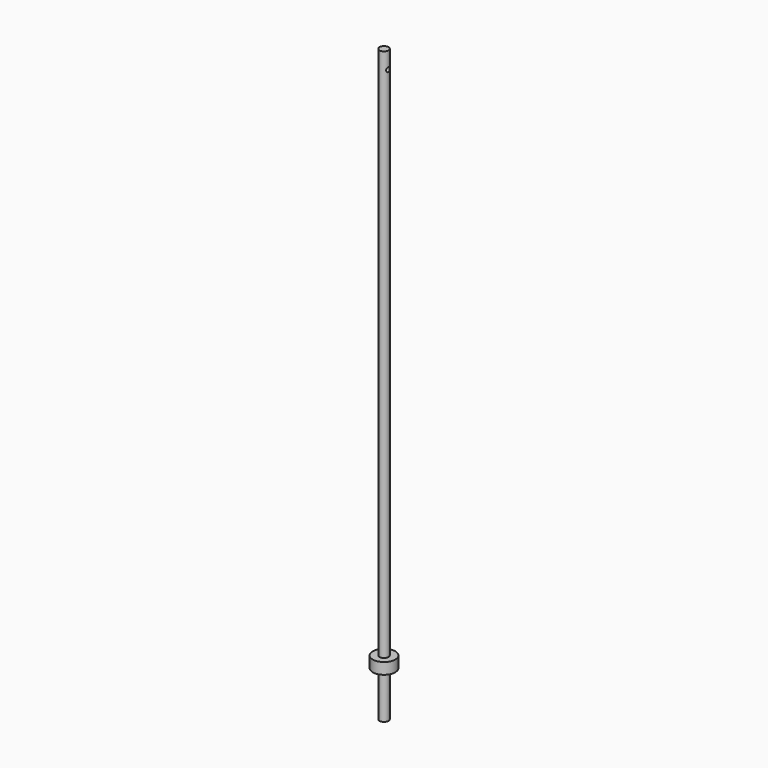
from build123d import *

# Parameters (mm, degrees)
F0_R     = 4
F1_DEPTH = 500
F3_START = -450
F2_R     = 10
F2_R_2   = 4
F3_DEPTH = 10
F4_DEPTH = 25
F5_R     = 2
F6_DEPTH = 12.5


with BuildPart() as f1:
    # F0 (on Top) → F1 (new body)
    with BuildSketch(Plane.XY):
        Circle(F0_R)
    extrude(amount=-F1_DEPTH)

    # F2 (on Top) → F3 (join)
    with BuildSketch(Plane.XY.offset(F3_START)):
        Circle(F2_R)
        Circle(F2_R_2, mode=Mode.SUBTRACT)
    extrude(amount=-F3_DEPTH)

    # F0 (on Top) → F4 (join)
    with BuildSketch(Plane.XY):
        Circle(F0_R)
    extrude(amount=F4_DEPTH)

    # F5 (on Right) → F6 (cut, symmetric)
    with BuildSketch(Plane.YZ):
        with Locations((0, 10)):
            Circle(F5_R)
    extrude(amount=F6_DEPTH, both=True, mode=Mode.SUBTRACT)


solid = f1.part
